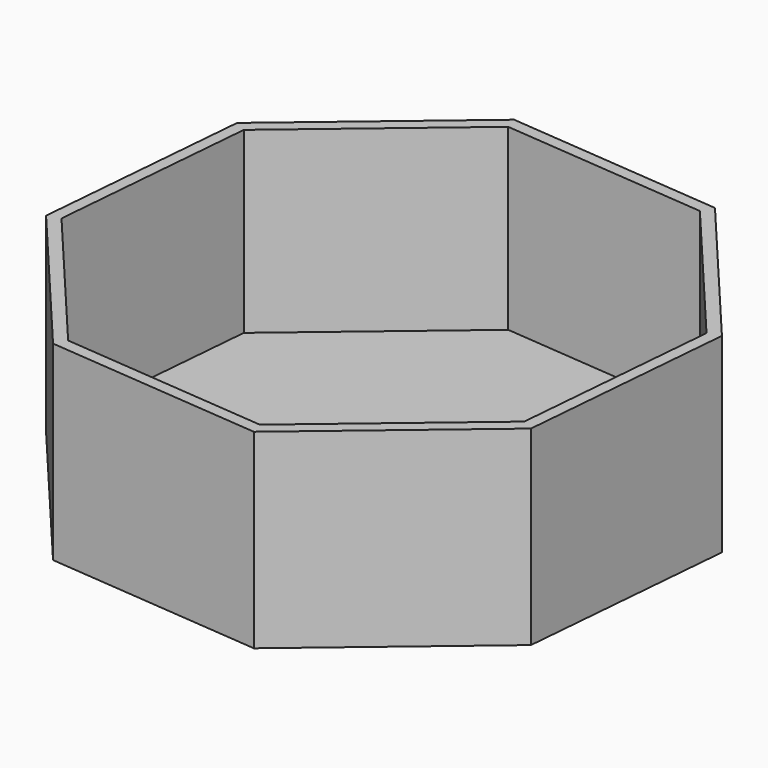
from build123d import *

# Parameters (mm, degrees)
F1_DEPTH = 40.64
F2_T     = -2.54


with BuildPart() as f1:
    # F0 (on Top) → F1 (new body)
    with BuildSketch(Plane.XY):
        Polygon((5.232671, 36.207791), (-24.485768, 71.502683), (-70.457135, 75.44583), (-105.752027, 45.727391), (-109.695175, -0.243976), (-79.976736, -35.538868), (-34.005369, -39.482016), (1.289523, -9.763577), align=None)
    extrude(amount=F1_DEPTH)

    # F2
    f2_openings = [f1.faces().sort_by_distance(p)[0] for p in [
        (-52.231252, 17.981907, 40.64),
    ]]
    offset(amount=F2_T, openings=f2_openings)


solid = f1.part
